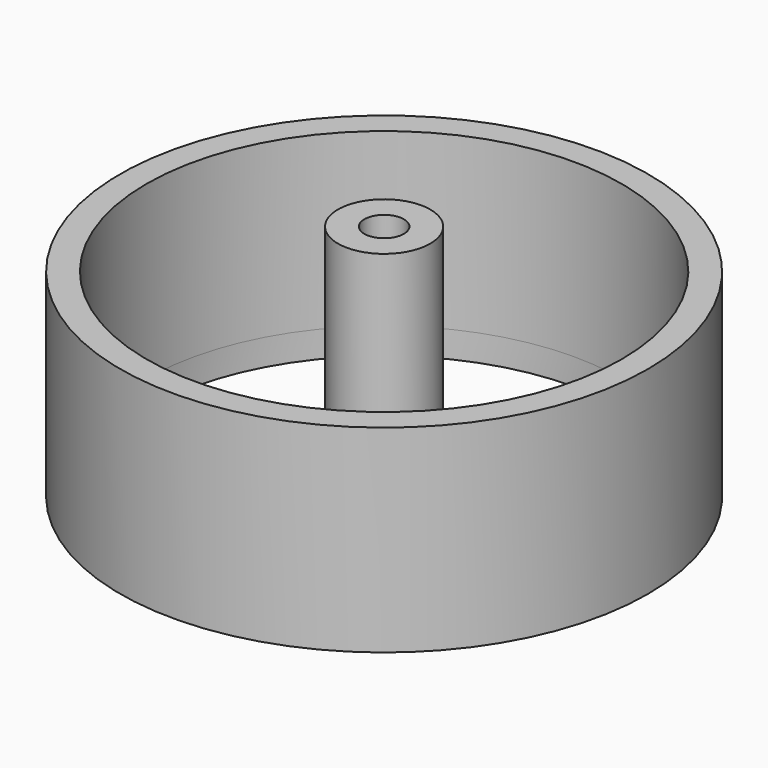
from build123d import *

# Parameters (mm, degrees)
F0_R     = 20
F1_DEPTH = 15
F2_R     = 18
F3_DEPTH = 13
F5_R     = 3.5
F5_R_2   = 1.5
F6_DEPTH = 16
F8_DEPTH = 2


with BuildPart() as f1:
    # F0 (on Top) → F1 (new body)
    with BuildSketch(Plane.XY):
        Circle(F0_R)
    extrude(amount=F1_DEPTH)

    # F2 (on face) → F3 (cut)
    with BuildSketch(Plane.XY.offset(15)):
        Circle(F2_R)
    extrude(amount=-F3_DEPTH, mode=Mode.SUBTRACT)

    # F5 (on face) → F6 (join)
    with BuildSketch(Plane.XY.offset(2)):
        Circle(F5_R)
        Circle(F5_R_2, mode=Mode.SUBTRACT)
    extrude(amount=F6_DEPTH)

    # F7 (on Top) → F8 (cut)
    with BuildSketch(Plane.XY):
        with BuildLine():
            ThreePointArc((-16.5530215172, -7.0708895234), (-10.5801345413, -14.5623058987), (-1.6096506002, -17.9278840064))
            Line((-1.6096506002, -17.9278840064), (-3.0696488791, -4.2250092194))
            Line((-3.0696488791, -4.2250092194), (-16.5530215172, -7.0708895234))
        make_face()
        with BuildLine():
            ThreePointArc((1.6096506002, -17.9278840064), (10.5801345413, -14.5623058987), (16.5530215172, -7.0708895234))
            Line((16.5530215172, -7.0708895234), (3.0696488791, -4.2250092194))
            Line((3.0696488791, -4.2250092194), (1.6096506002, -17.9278840064))
        make_face()
        with BuildLine():
            ThreePointArc((17.5478402981, -4.0091521389), (17.8866028827, -2.0172846396), (18, 0))
            ThreePointArc((18, 0), (16.3877949898, 7.4458159641), (11.8399805143, 13.5578339502))
            Line((11.8399805143, 13.5578339502), (4.9667962199, 1.613809919))
            Line((4.9667962199, 1.613809919), (17.5478402981, -4.0091521389))
        make_face()
        with BuildLine():
            Line((0, 5.2223986007), (9.2355111332, 15.4500917184))
            ThreePointArc((9.2355111332, 15.4500917184), (0, 18), (-9.2355111332, 15.4500917184))
            Line((-9.2355111332, 15.4500917184), (0, 5.2223986007))
        make_face()
        with BuildLine():
            Line((-4.9667962199, 1.613809919), (-11.8399805143, 13.5578339502))
            ThreePointArc((-11.8399805143, 13.5578339502), (-17.1190172933, 5.5623058987), (-17.5478402981, -4.0091521389))
            Line((-17.5478402981, -4.0091521389), (-4.9667962199, 1.613809919))
        make_face()
    extrude(amount=F8_DEPTH, mode=Mode.SUBTRACT)


solid = f1.part
